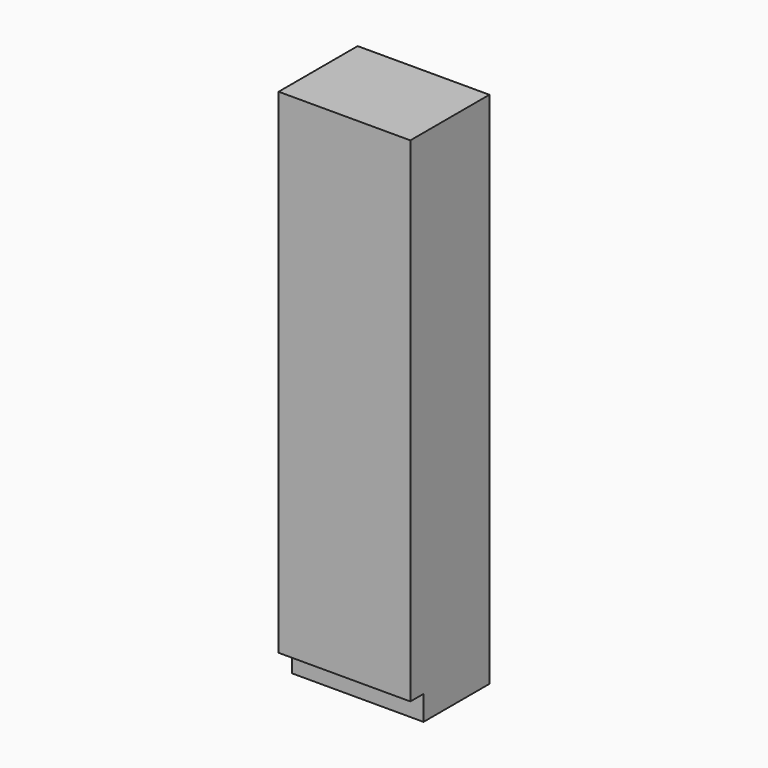
from build123d import *

# Parameters (mm, degrees)
F0_W     = 609.6
F0_H     = 381
F0_H_2   = 76.2
F1_DEPTH = 2286
F2_DEPTH = 114.3


with BuildPart() as f1:
    # F0 (on Top) → F1 (new body)
    with BuildSketch(Plane.XY):
        with Locations((0, 38.1)):
            Rectangle(F0_W, F0_H)
        with Locations((0, -190.5)):
            Rectangle(F0_W, F0_H_2)
    extrude(amount=F1_DEPTH)

    # F0 (on Top) → F2 (join)
    with BuildSketch(Plane.XY):
        with Locations((0, 38.1)):
            Rectangle(F0_W, F0_H)
    extrude(amount=-F2_DEPTH)


solid = f1.part
